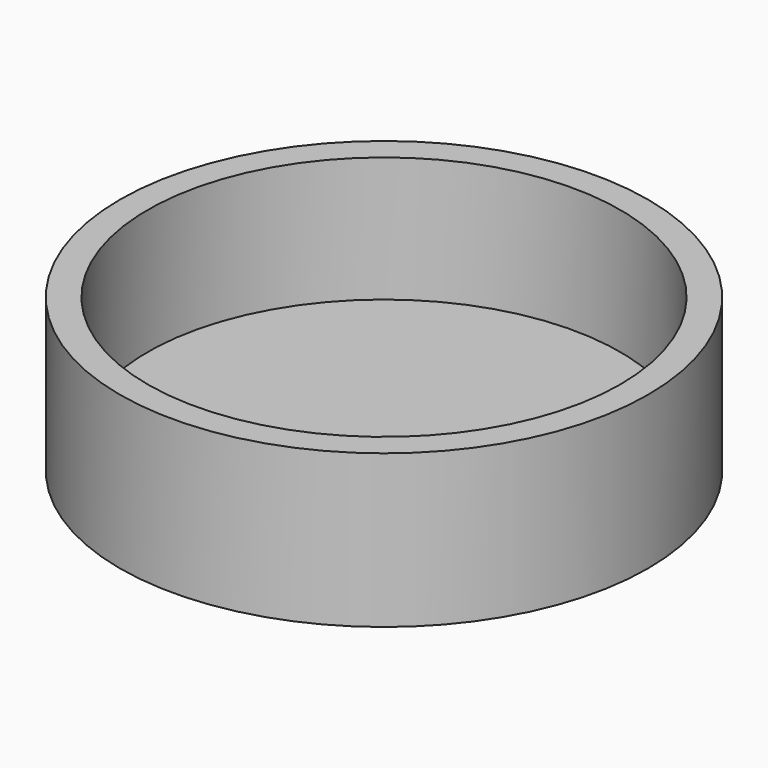
from build123d import *

# Parameters (mm, degrees)
F0_R     = 9.5
F0_R_2   = 8.5
F1_DEPTH = 4.5
F0_R_3   = 7.5
F0_R_4   = 6.5
F2_DEPTH = 1


with BuildPart() as f1:
    # F0 (on Top) → F1 (new body)
    with BuildSketch(Plane.XY):
        Circle(F0_R)
        Circle(F0_R_2, mode=Mode.SUBTRACT)
    extrude(amount=F1_DEPTH)

    # F0 (on Top) → F2 (join)
    with BuildSketch(Plane.XY):
        Circle(F0_R)
        Circle(F0_R_2, mode=Mode.SUBTRACT)
        Circle(F0_R_2)
        Circle(F0_R_3, mode=Mode.SUBTRACT)
        Circle(F0_R_3)
        Circle(F0_R_4, mode=Mode.SUBTRACT)
        Circle(F0_R_4)
    extrude(amount=-F2_DEPTH)


solid = f1.part
